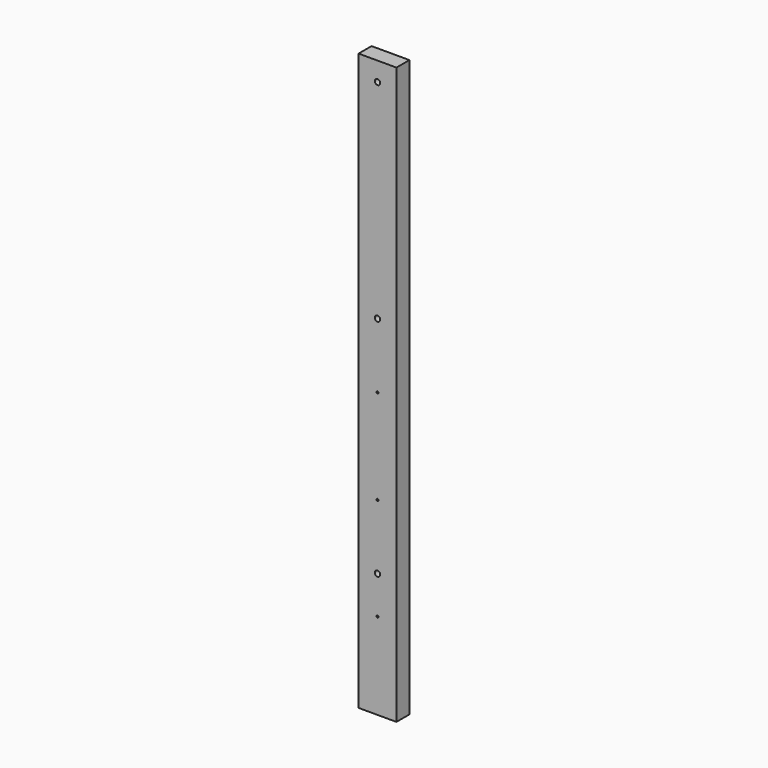
from build123d import *

# Parameters (mm, degrees)
SKETCH002_AS_DRAWN_R                 = 2.38125
EXTRUDE002_DEPTH                     = 12.7
EXTRUDE002_ONTO_SKETCH002_ROLL_ANGLE = 90
SKETCH001_AS_DRAWN_R                 = 6.35
EXTRUDE001_DEPTH                     = 50.8
EXTRUDE001_ONTO_SKETCH001_ROLL_ANGLE = 90
SKETCH_W                             = 88.9
SKETCH_H                             = 38.1
EXTRUDE_DEPTH                        = 1352.55


with BuildPart() as extrude002:
    # Sketch002 as drawn → Extrude002 (new)
    with BuildSketch(Plane.XY):
        with Locations((44.45, 203.2)):
            Circle(SKETCH002_AS_DRAWN_R)
        with Locations((44.45, 666.75)):
            Circle(SKETCH002_AS_DRAWN_R)
        with Locations((44.45, 444.5)):
            Circle(SKETCH002_AS_DRAWN_R)
    extrude(amount=-EXTRUDE002_DEPTH)


with BuildPart() as extrude002_1:
    # Extrude002 onto Sketch002 roll: moved
    add(extrude002.part.rotate(Axis((0, 0, 0), (1, 0, 0)), EXTRUDE002_ONTO_SKETCH002_ROLL_ANGLE))


with BuildPart() as extrude002_2:
    # Extrude002 onto Sketch002 placement: moved
    add(extrude002_1.part)


with BuildPart() as extrude001:
    # Sketch001 as drawn → Extrude001 (new)
    with BuildSketch(Plane.XY):
        with Locations((44.45, 292.1)):
            Circle(SKETCH001_AS_DRAWN_R)
        with Locations((44.45, 819.15)):
            Circle(SKETCH001_AS_DRAWN_R)
        with Locations((44.45, 1308.1)):
            Circle(SKETCH001_AS_DRAWN_R)
    extrude(amount=-EXTRUDE001_DEPTH)


with BuildPart() as extrude001_1:
    # Extrude001 onto Sketch001 roll: moved
    add(extrude001.part.rotate(Axis((0, 0, 0), (1, 0, 0)), EXTRUDE001_ONTO_SKETCH001_ROLL_ANGLE))


with BuildPart() as extrude001_2:
    # Extrude001 onto Sketch001 placement: moved
    add(extrude001_1.part)


with BuildPart() as cut001:
    # Sketch → Extrude (new body)
    with BuildSketch(Plane.XY):
        with Locations((44.45, 19.05)):
            Rectangle(SKETCH_W, SKETCH_H)
    extrude(amount=EXTRUDE_DEPTH)

    # Cut: cut Extrude001
    add(extrude001_2.part, mode=Mode.SUBTRACT)

    # Cut001: cut Extrude002
    add(extrude002_2.part, mode=Mode.SUBTRACT)


solid = cut001.part
